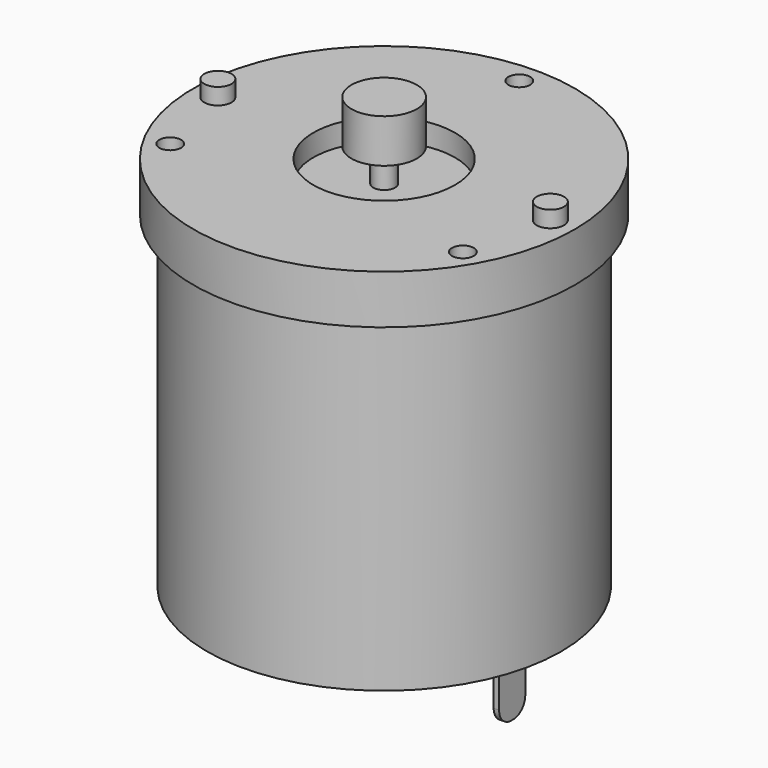
from build123d import *

# Parameters (mm, degrees)
SKETCH_R        = 17.5
PAD_DEPTH       = 4.5
SKETCH001_R     = 16.25
PAD001_DEPTH    = 30
SKETCH002_R     = 4.5
PAD002_DEPTH    = 4
SKETCH003_W     = 0.5
SKETCH003_H     = 3
PAD003_DEPTH    = 7
FILLET_R        = 1.4
SKETCH004_R     = 1.25
PAD004_DEPTH    = 1.5
SKETCH005_R     = 1
POCKET_DEPTH    = 4.5
SKETCH006_R     = 6.5
POCKET001_DEPTH = 2
SKETCH007_R     = 1
PAD005_DEPTH    = 7
SKETCH008_R     = 3
PAD006_DEPTH    = 4


with BuildPart() as part:
    # Sketch → Pad (new body)
    with BuildSketch(Plane.XY):
        Circle(SKETCH_R)
    extrude(amount=PAD_DEPTH)

    # Sketch001 (on Face2 of Pad) → Pad001 (join)
    with BuildSketch(Plane(origin=(0, 0, 0), x_dir=(1, 0, 0), z_dir=(0, 0, -1))):
        Circle(SKETCH001_R)
    extrude(amount=PAD001_DEPTH)

    # Sketch002 (on Face5 of Pad001) → Pad002 (join)
    with BuildSketch(Plane(origin=(0, 0, -30), x_dir=(1, 0, 0), z_dir=(0, 0, -1))):
        Circle(SKETCH002_R)
    extrude(amount=PAD002_DEPTH)

    # Sketch003 (on Face5 of Pad002) → Pad003 (join)
    with BuildSketch(Plane(origin=(0, 0, -30), x_dir=(1, 0, 0), z_dir=(0, 0, -1))):
        with Locations((11.5, 0)):
            Rectangle(SKETCH003_W, SKETCH003_H)
        with Locations((-11.5, 0)):
            Rectangle(SKETCH003_W, SKETCH003_H)
    extrude(amount=PAD003_DEPTH)

    # Fillet
    fillet_edges = [part.edges().sort_by_distance(p)[0] for p in [
        (11.5, -1.5, -37),
        (11.5, 1.5, -37),
        (-11.5, 1.5, -37),
        (-11.5, -1.5, -37),
    ]]
    fillet(fillet_edges, radius=FILLET_R)

    # Sketch004 (on Face21 of Fillet) → Pad004 (join)
    with BuildSketch(Plane.XY.offset(4.5)):
        with Locations((-15.25, 0)):
            Circle(SKETCH004_R)
        with Locations((15.25, 0)):
            Circle(SKETCH004_R)
    extrude(amount=PAD004_DEPTH)

    # Sketch005 (on Face21 of Pad004) → Pocket (cut)
    with BuildSketch(Plane.XY.offset(4.5)):
        with Locations((0, 15.5)):
            Circle(SKETCH005_R)
        with Locations((-13.423394, -7.75)):
            Circle(SKETCH005_R)
        with Locations((13.423394, -7.75)):
            Circle(SKETCH005_R)
    extrude(amount=-POCKET_DEPTH, mode=Mode.SUBTRACT)

    # Sketch006 (on Face27 of Pocket) → Pocket001 (cut)
    with BuildSketch(Plane.XY.offset(4.5)):
        Circle(SKETCH006_R)
    extrude(amount=-POCKET001_DEPTH, mode=Mode.SUBTRACT)

    # Sketch007 (on Face32 of Pocket001) → Pad005 (join)
    with BuildSketch(Plane.XY.offset(2.5)):
        Circle(SKETCH007_R)
    extrude(amount=PAD005_DEPTH)

    # Sketch008 (on Face35 of Pad005) → Pad006 (join)
    with BuildSketch(Plane.XY.offset(9.5)):
        Circle(SKETCH008_R)
    extrude(amount=-PAD006_DEPTH)


solid = part.part
